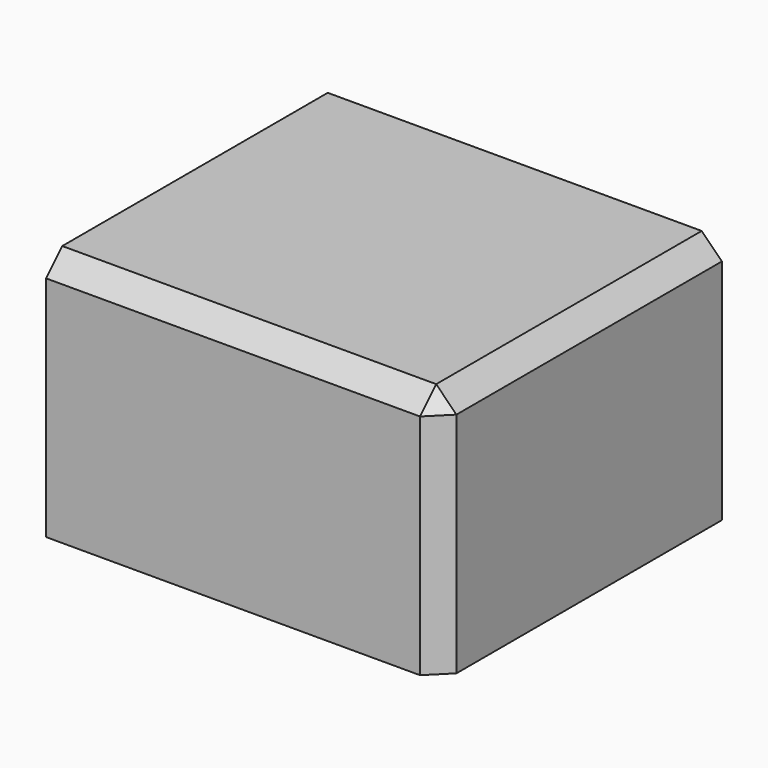
from build123d import *

# Parameters (mm, degrees)
F0_W     = 98.959736
F0_H     = 62.263422
F1_DEPTH = 88.392
F2_SIZE  = 5.08


with BuildPart() as f1:
    # F0 (on Front) → F1 (new body)
    with BuildSketch(Plane.XZ):
        Rectangle(F0_W, F0_H)
    extrude(amount=F1_DEPTH)

    # F2
    f2_edges = [f1.edges().sort_by_distance(p)[0] for p in [
        (0, -88.392, 31.131711),
        (49.479868, -44.196, 31.131711),
        (49.479868, -88.392, 0),
    ]]
    chamfer(f2_edges, length=F2_SIZE)


solid = f1.part
